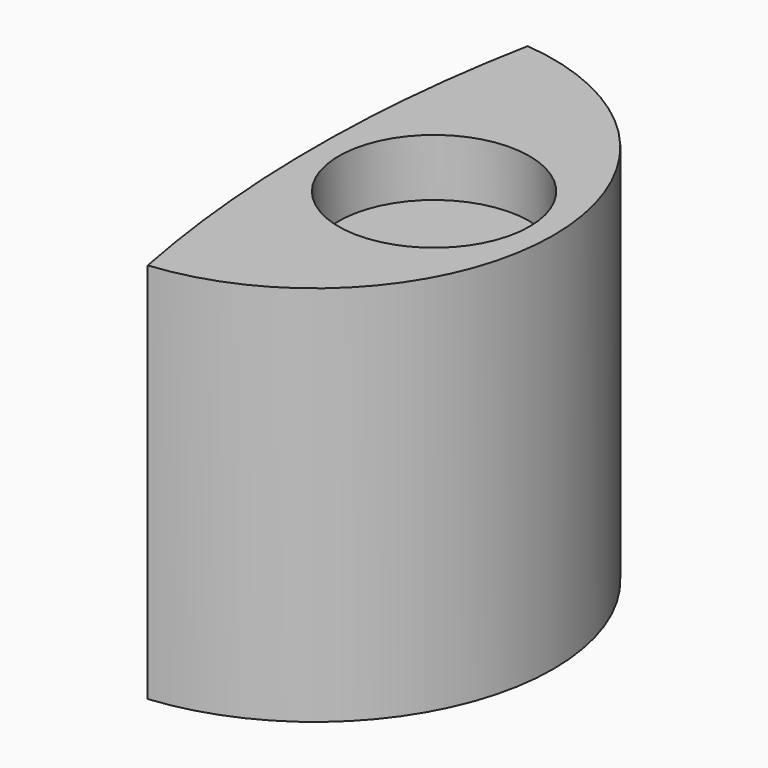
from build123d import *

# Parameters (mm, degrees)
F1_DEPTH = 20
F3_DEPTH = 3


with BuildPart() as f1:
    # F0 (on Top) → F1 (new body)
    with BuildSketch(Plane.XY):
        with BuildLine():
            ThreePointArc((-63.7980769231, -12.4420810525), (-52.5, 0), (-63.7980769231, 12.4420810525))
            ThreePointArc((-63.7980769231, 12.4420810525), (-65, 0), (-63.7980769231, -12.4420810525))
        make_face()
    extrude(amount=F1_DEPTH)

    # F2 (on face) → F3 (cut)
    with BuildSketch(Plane.XY.offset(20)):
        with BuildLine():
            ThreePointArc((-63.75, 0), (-58.75, -5), (-53.75, 0))
            Line((-53.75, 0), (-63.75, 0))
        make_face()
        with BuildLine():
            Line((-63.75, 0), (-53.75, 0))
            ThreePointArc((-53.75, 0), (-58.75, 5), (-63.75, 0))
        make_face()
    extrude(amount=-F3_DEPTH, mode=Mode.SUBTRACT)


solid = f1.part
